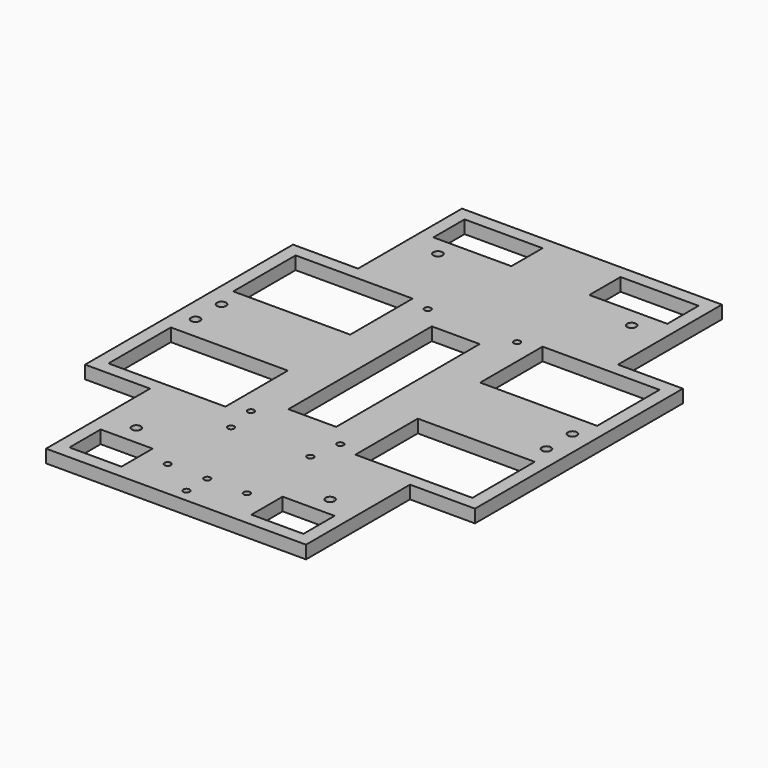
from build123d import *

# Parameters (mm, degrees)
F1_W     = 30
F1_H     = 15
F1_W_2   = 12.75
F1_H_2   = 5
F1_W_3   = 20
F1_W_4   = 74.5
F1_H_3   = 12.5
F1_H_4   = 8.75
F3_DEPTH = 5
F2_W     = 18.4
F2_H     = 69
F4_DEPTH = 5


with BuildPart() as f3:
    # F1 (on Top) → F3 (new body)
    with BuildSketch(Plane.XY):
        with BuildLine():
            Line((50, 100), (-50, 100))
            Line((-50, 100), (-50, 50))
            Line((-50, 50), (-37.25, 50))
            Line((-37.25, 50), (-37.25, 70.75))
            ThreePointArc((-37.25, 70.75), (-38.4874368671, 73.7374368671), (-35.5, 72.5))
            Line((-35.5, 72.5), (35.5, 72.5))
            ThreePointArc((35.5, 72.5), (37.25, 74.25), (39, 72.5))
            ThreePointArc((39, 72.5), (38.4874368671, 71.2625631329), (37.25, 70.75))
            Line((37.25, 70.75), (37.25, 50))
            Line((37.25, 50), (50, 50))
            Line((50, 50), (50, 100))
        make_face()
        with Locations((-30, 87.5)):
            Rectangle(F1_W, F1_H, mode=Mode.SUBTRACT)
        with Locations((30, 87.5)):
            Rectangle(F1_W, F1_H, mode=Mode.SUBTRACT)
        with Locations((-43.625, 47.5)):
            Rectangle(F1_W_2, F1_H_2)
        with BuildLine():
            Line((-50, 45), (-50, 50))
            Line((-50, 50), (-75, 50))
            Line((-75, 50), (-75, -50))
            Line((-75, -50), (-50, -50))
            Line((-50, -50), (-50, -45))
            Line((-50, -45), (-70, -45))
            Line((-70, -45), (-70, -15))
            Line((-70, -15), (-50, -15))
            Line((-50, -15), (-50, -6.25))
            Line((-50, -6.25), (-65.75, -6.25))
            ThreePointArc((-65.75, -6.25), (-68.7374368671, -7.4874368671), (-67.5, -4.5))
            Line((-67.5, -4.5), (-67.5, 4.5))
            ThreePointArc((-67.5, 4.5), (-68.7374368671, 7.4874368671), (-65.75, 6.25))
            Line((-65.75, 6.25), (-50, 6.25))
            Line((-50, 6.25), (-50, 15))
            Line((-50, 15), (-70, 15))
            Line((-70, 15), (-70, 45))
            Line((-70, 45), (-50, 45))
        make_face()
        with BuildLine():
            Line((75, 50), (50, 50))
            Line((50, 50), (50, 45))
            Line((50, 45), (70, 45))
            Line((70, 45), (70, 15))
            Line((70, 15), (50, 15))
            Line((50, 15), (50, 6.25))
            Line((50, 6.25), (65.75, 6.25))
            ThreePointArc((65.75, 6.25), (67.5, 8), (69.25, 6.25))
            ThreePointArc((69.25, 6.25), (68.7374368671, 5.0125631329), (67.5, 4.5))
            Line((67.5, 4.5), (67.5, -4.5))
            ThreePointArc((67.5, -4.5), (68.7374368671, -5.0125631329), (69.25, -6.25))
            ThreePointArc((69.25, -6.25), (67.5, -8), (65.75, -6.25))
            Line((65.75, -6.25), (50, -6.25))
            Line((50, -6.25), (50, -15))
            Line((50, -15), (70, -15))
            Line((70, -15), (70, -45))
            Line((70, -45), (50, -45))
            Line((50, -45), (50, -50))
            Line((50, -50), (75, -50))
            Line((75, -50), (75, 50))
        make_face()
        with Locations((43.625, 47.5)):
            Rectangle(F1_W_2, F1_H_2)
        with BuildLine():
            Line((-37.25, -50), (-50, -50))
            Line((-50, -50), (-50, -100))
            Line((-50, -100), (50, -100))
            Line((50, -100), (50, -50))
            Line((50, -50), (37.25, -50))
            Line((37.25, -50), (37.25, -70.75))
            ThreePointArc((37.25, -70.75), (38.4874368671, -71.2625631329), (39, -72.5))
            ThreePointArc((39, -72.5), (37.25, -74.25), (35.5, -72.5))
            Line((35.5, -72.5), (-35.5, -72.5))
            ThreePointArc((-35.5, -72.5), (-38.4874368671, -73.7374368671), (-37.25, -70.75))
            Line((-37.25, -70.75), (-37.25, -50))
        make_face()
        with Locations((-35, -87.5)):
            Rectangle(F1_W_3, F1_H, mode=Mode.SUBTRACT)
        with Locations((35, -87.5)):
            Rectangle(F1_W_3, F1_H, mode=Mode.SUBTRACT)
        with Locations((-43.625, -47.5)):
            Rectangle(F1_W_2, F1_H_2)
        with Locations((43.625, -47.5)):
            Rectangle(F1_W_2, F1_H_2)
        with BuildLine():
            Line((37.25, -50), (-37.25, -50))
            Line((-37.25, -50), (-37.25, -70.75))
            ThreePointArc((-37.25, -70.75), (-36.0125631329, -71.2625631329), (-35.5, -72.5))
            Line((-35.5, -72.5), (35.5, -72.5))
            ThreePointArc((35.5, -72.5), (36.0125631329, -71.2625631329), (37.25, -70.75))
            Line((37.25, -70.75), (37.25, -50))
        make_face()
        Polygon((-37.25, -45), (-37.25, -50), (37.25, -50), (37.25, -45), (25, -45), (25, -15), (37.25, -15), (37.25, -6.25), (-37.25, -6.25), (-37.25, -15), (-25, -15), (-25, -45), align=None)
        Polygon((37.25, 50), (-37.25, 50), (-37.25, 45), (-25, 45), (-25, 15), (-37.25, 15), (-37.25, 6.25), (37.25, 6.25), (37.25, 15), (25, 15), (25, 45), (37.25, 45), align=None)
        with BuildLine():
            Line((-37.25, 70.75), (-37.25, 50))
            Line((-37.25, 50), (37.25, 50))
            Line((37.25, 50), (37.25, 70.75))
            ThreePointArc((37.25, 70.75), (36.0125631329, 71.2625631329), (35.5, 72.5))
            Line((35.5, 72.5), (-35.5, 72.5))
            ThreePointArc((-35.5, 72.5), (-36.0125631329, 71.2625631329), (-37.25, 70.75))
        make_face()
        Rectangle(F1_W_4, F1_H_3)
        with Locations((-43.625, 10.625)):
            Rectangle(F1_W_2, F1_H_4)
        with Locations((-43.625, -10.625)):
            Rectangle(F1_W_2, F1_H_4)
        with Locations((-43.625, 0)):
            Rectangle(F1_W_2, F1_H_3)
        with Locations((43.625, -10.625)):
            Rectangle(F1_W_2, F1_H_4)
        with Locations((43.625, 0)):
            Rectangle(F1_W_2, F1_H_3)
        with Locations((43.625, 10.625)):
            Rectangle(F1_W_2, F1_H_4)
        with BuildLine():
            Line((65.75, 6.25), (50, 6.25))
            Line((50, 6.25), (50, -6.25))
            Line((50, -6.25), (65.75, -6.25))
            ThreePointArc((65.75, -6.25), (66.2625631329, -5.0125631329), (67.5, -4.5))
            Line((67.5, -4.5), (67.5, 4.5))
            ThreePointArc((67.5, 4.5), (66.2625631329, 5.0125631329), (65.75, 6.25))
        make_face()
        with BuildLine():
            Line((-50, -6.25), (-50, 6.25))
            Line((-50, 6.25), (-65.75, 6.25))
            ThreePointArc((-65.75, 6.25), (-66.2625631329, 5.0125631329), (-67.5, 4.5))
            Line((-67.5, 4.5), (-67.5, -4.5))
            ThreePointArc((-67.5, -4.5), (-66.2625631329, -5.0125631329), (-65.75, -6.25))
            Line((-65.75, -6.25), (-50, -6.25))
        make_face()
    extrude(amount=F3_DEPTH)

    # F2 (on face) → F4 (cut)
    with BuildSketch(Plane.XY):
        with BuildLine():
            Line((15.25, -85), (14, -85))
            ThreePointArc((14, -85), (15.25, -86.25), (16.5, -85))
            ThreePointArc((16.5, -85), (16.1338834765, -84.1161165235), (15.25, -83.75))
            Line((15.25, -83.75), (15.25, -85))
        make_face()
        with BuildLine():
            ThreePointArc((-1.25, -85), (-0.8838834765, -85.8838834765), (0, -86.25))
            Line((0, -86.25), (0, -85))
            Line((0, -85), (-1.25, -85))
        make_face()
        with BuildLine():
            Line((0, -83.75), (0, -85))
            Line((0, -85), (1.25, -85))
            ThreePointArc((1.25, -85), (0.8838834765, -84.1161165235), (0, -83.75))
        make_face()
        with BuildLine():
            Line((0, -85), (0, -86.25))
            ThreePointArc((0, -86.25), (0.8838834765, -85.8838834765), (1.25, -85))
            Line((1.25, -85), (0, -85))
        make_face()
        with BuildLine():
            Line((-1.25, -85), (0, -85))
            Line((0, -85), (0, -83.75))
            ThreePointArc((0, -83.75), (-0.8838834765, -84.1161165235), (-1.25, -85))
        make_face()
        with BuildLine():
            ThreePointArc((0, -93.75), (-1.25, -95), (0, -96.25))
            Line((0, -96.25), (0, -93.75))
        make_face()
        with BuildLine():
            Line((0, -93.75), (0, -96.25))
            ThreePointArc((0, -96.25), (0.8838834765, -95.8838834765), (1.25, -95))
            ThreePointArc((1.25, -95), (0.8838834765, -94.1161165235), (0, -93.75))
        make_face()
        with BuildLine():
            ThreePointArc((15.25, -83.75), (14.3661165235, -84.1161165235), (14, -85))
            Line((14, -85), (15.25, -85))
            Line((15.25, -85), (15.25, -83.75))
        make_face()
        with BuildLine():
            ThreePointArc((-15.25, -83.75), (-16.1338834765, -85.8838834765), (-14, -85))
            Line((-14, -85), (-15.25, -85))
            Line((-15.25, -85), (-15.25, -83.75))
        make_face()
        with BuildLine():
            Line((-15.25, -85), (-14, -85))
            ThreePointArc((-14, -85), (-14.3661165235, -84.1161165235), (-15.25, -83.75))
            Line((-15.25, -83.75), (-15.25, -85))
        make_face()
        with BuildLine():
            Line((15.25, -54.5), (15.25, -55.75))
            ThreePointArc((15.25, -55.75), (16.1338834765, -55.3838834765), (16.5, -54.5))
            ThreePointArc((16.5, -54.5), (15.25, -53.25), (14, -54.5))
            Line((14, -54.5), (15.25, -54.5))
        make_face()
        with BuildLine():
            ThreePointArc((14, -54.5), (14.3661165235, -55.3838834765), (15.25, -55.75))
            Line((15.25, -55.75), (15.25, -54.5))
            Line((15.25, -54.5), (14, -54.5))
        make_face()
        with BuildLine():
            Line((-15.25, -54.5), (-15.25, -55.75))
            ThreePointArc((-15.25, -55.75), (-14.3661165235, -55.3838834765), (-14, -54.5))
            Line((-14, -54.5), (-15.25, -54.5))
        make_face()
        with BuildLine():
            ThreePointArc((-14, -54.5), (-16.1338834765, -53.6161165235), (-15.25, -55.75))
            Line((-15.25, -55.75), (-15.25, -54.5))
            Line((-15.25, -54.5), (-14, -54.5))
        make_face()
        with BuildLine():
            Line((17.2, -42.5), (15.95, -42.5))
            ThreePointArc((15.95, -42.5), (17.2, -43.75), (18.45, -42.5))
            ThreePointArc((18.45, -42.5), (18.0838834765, -41.6161165235), (17.2, -41.25))
            Line((17.2, -41.25), (17.2, -42.5))
        make_face()
        with BuildLine():
            ThreePointArc((17.2, -41.25), (16.3161165235, -41.6161165235), (15.95, -42.5))
            Line((15.95, -42.5), (17.2, -42.5))
            Line((17.2, -42.5), (17.2, -41.25))
        make_face()
        with BuildLine():
            Line((-17.2, -42.5), (-15.95, -42.5))
            ThreePointArc((-15.95, -42.5), (-16.3161165235, -41.6161165235), (-17.2, -41.25))
            Line((-17.2, -41.25), (-17.2, -42.5))
        make_face()
        with BuildLine():
            ThreePointArc((-17.2, -41.25), (-18.0838834765, -43.3838834765), (-15.95, -42.5))
            Line((-15.95, -42.5), (-17.2, -42.5))
            Line((-17.2, -42.5), (-17.2, -41.25))
        make_face()
        with BuildLine():
            ThreePointArc((-15.95, 42.5), (-18.0838834765, 43.3838834765), (-17.2, 41.25))
            Line((-17.2, 41.25), (-17.2, 42.5))
            Line((-17.2, 42.5), (-15.95, 42.5))
        make_face()
        with BuildLine():
            Line((-17.2, 42.5), (-17.2, 41.25))
            ThreePointArc((-17.2, 41.25), (-16.3161165235, 41.6161165235), (-15.95, 42.5))
            Line((-15.95, 42.5), (-17.2, 42.5))
        make_face()
        with BuildLine():
            ThreePointArc((15.95, 42.5), (16.3161165235, 41.6161165235), (17.2, 41.25))
            Line((17.2, 41.25), (17.2, 42.5))
            Line((17.2, 42.5), (15.95, 42.5))
        make_face()
        with BuildLine():
            Line((17.2, 42.5), (17.2, 41.25))
            ThreePointArc((17.2, 41.25), (18.0838834765, 41.6161165235), (18.45, 42.5))
            ThreePointArc((18.45, 42.5), (17.2, 43.75), (15.95, 42.5))
            Line((15.95, 42.5), (17.2, 42.5))
        make_face()
        Rectangle(F2_W, F2_H)
    extrude(amount=F4_DEPTH, mode=Mode.SUBTRACT)


solid = f3.part
